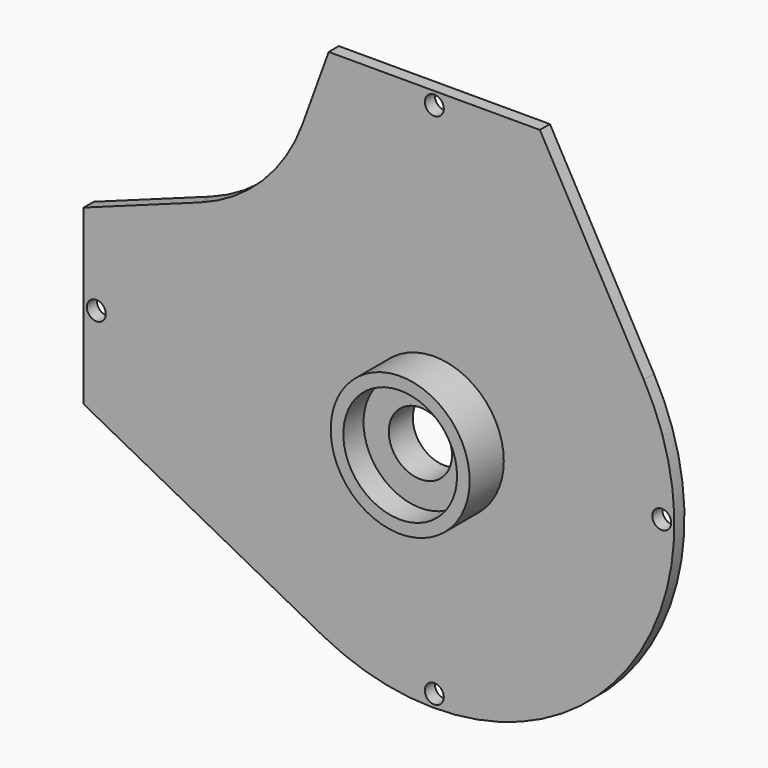
from build123d import *

# Parameters (mm, degrees)
F1_DEPTH = 4
F3_D     = 6
F3_DEPTH = 10
F4_R     = 22
F5_DEPTH = 13.5
F6_R     = 18
F7_DEPTH = 8
F8_R     = 10
F9_DEPTH = 25


with BuildPart() as f1:
    # F0 (on Front) → F1 (new body)
    with BuildSketch(Plane.XZ):
        with BuildLine():
            Line((33.42, 96), (-33.42, 96))
            Line((-33.42, 96), (-41.746287, 73.123714))
            ThreePointArc((-41.746287, 73.123714), (-54.305922, 53.409036), (-74.020601, 40.849401))
            Line((-74.020601, 40.849401), (-111, 27.39))
            Line((-111, 27.39), (-111, -27.39))
            Line((-111, -27.39), (-35.447282, -67.227154))
            ThreePointArc((-35.447282, -67.227154), (54.388917, -53.083384), (66.346243, 37.069881))
            Line((66.346243, 37.069881), (33.42, 96))
        make_face()
    extrude(amount=F1_DEPTH)

    # F3
    with Locations(Plane.XZ.offset(4)):
        with Locations((0, 92), (-107, 0), (0, -72), (72, 0)):
            Hole(F3_D / 2, depth=F3_DEPTH)

    # F4 (on face) → F5 (join)
    with BuildSketch(Plane.XZ.offset(4)):
        Circle(F4_R)
    extrude(amount=F5_DEPTH)

    # F6 (on face) → F7 (cut)
    with BuildSketch(Plane.XZ.offset(17.5)):
        Circle(F6_R)
    extrude(amount=-F7_DEPTH, mode=Mode.SUBTRACT)

    # F8 (on face) → F9 (cut)
    with BuildSketch(Plane.XZ.offset(9.5)):
        Circle(F8_R)
    extrude(amount=-F9_DEPTH, mode=Mode.SUBTRACT)


solid = f1.part
